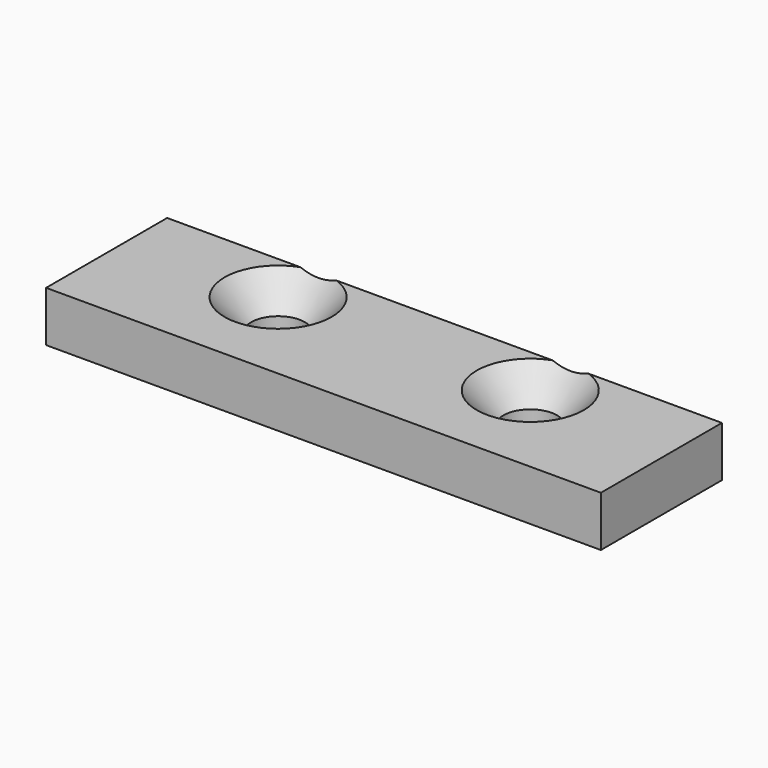
from build123d import *

# Parameters (mm, degrees)
F0_W           = 69.85
F0_H           = 19.05
F0_R           = 3.571875
F1_DEPTH       = 6.35
F2_D           = 6.7564
F2_CSINK_D     = 13.4874
F2_CSINK_ANGLE = 82


with BuildPart() as f1:
    # F0 (on Top) → F1 (new body)
    with BuildSketch(Plane.XY):
        Rectangle(F0_W, F0_H)
        with Locations((-15.875, 3.175)):
            Circle(F0_R, mode=Mode.SUBTRACT)
        with Locations((15.875, 3.175)):
            Circle(F0_R, mode=Mode.SUBTRACT)
        with Locations((-15.875, 3.175)):
            Circle(F0_R)
        with Locations((15.875, 3.175)):
            Circle(F0_R)
    extrude(amount=-F1_DEPTH)

    # F2 (through all)
    with Locations(Plane.XY):
        with Locations((-15.875, 3.175), (15.875, 3.175)):
            CounterSinkHole(F2_D / 2, F2_CSINK_D / 2, counter_sink_angle=F2_CSINK_ANGLE)


solid = f1.part
